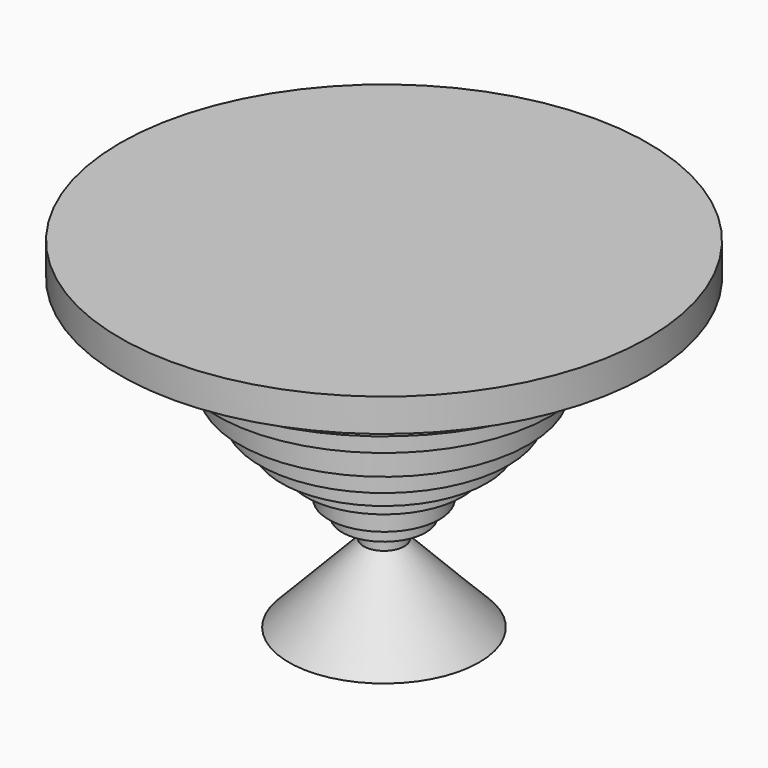
from build123d import *

# Parameters (mm, degrees)
F0_W = 5.3638014942
F0_H = 5.0658094697


with BuildPart() as f1:
    # F0 (on Front) → F1 (revolve)
    with BuildSketch(Plane.XZ):
        Polygon((0, 57.5609132648), (0, 48.8788373768), (54.4396974146, 48.8788373768), (69.6776285768, 48.8788373768), (69.6776285768, 57.5609132648), align=None)
        Polygon((0, 48.8788373768), (0, 40.3774864972), (44.102344662, 40.3774864972), (54.4396974146, 40.3774864972), (54.4396974146, 48.8788373768), align=None)
        Polygon((44.102344662, 40.3774864972), (0, 40.3774864972), (0, 31.1398338526), (38.1425730884, 31.1398338526), (44.102344662, 31.1398338526), align=None)
        Polygon((38.1425730884, 31.1398338526), (0, 31.1398338526), (0, 22.4981550127), (32.7787734568, 22.4981550127), (38.1425730884, 22.4981550127), align=None)
        Polygon((32.7787734568, 22.4981550127), (0, 22.4981550127), (0, 15.942402184), (27.1169804037, 15.942402184), (32.7787734568, 15.942402184), align=None)
        Polygon((27.1169804037, 15.942402184), (0, 15.942402184), (0, 9.9826259539), (20.5612275749, 9.9826259539), (27.1169804037, 9.9826259539), align=None)
        Polygon((20.5612275749, 9.9826259539), (0, 9.9826259539), (0, 4.6188267879), (14.6014532074, 4.6188267879), (20.5612275749, 4.6188267879), align=None)
        Polygon((14.6014532074, 4.6188267879), (0, 4.6188267879), (0, -2.5329052005), (11.0255880281, -2.5329052005), (14.6014532074, -2.5329052005), align=None)
        Polygon((11.0255880281, -2.5329052005), (0, -2.5329052005), (0, -6.7047490738), (5.3638014942, -6.7047490738), (11.0255880281, -6.7047490738), align=None)
        with Locations((2.6819007471, -9.2376538087)):
            Rectangle(F0_W, F0_H)
        Polygon((5.3638014942, -11.7705585435), (0, -11.7705585435), (0, -32.3061943054), (12.5639922917, -32.3061943054), align=None)
        Polygon((25.1279845834, -32.3061943054), (5.3638014942, -11.7705585435), (12.5639922917, -32.3061943054), align=None)
    revolve(axis=Axis((0, 0, 7.0027373731), (0, 0, -1)))


solid = f1.part
